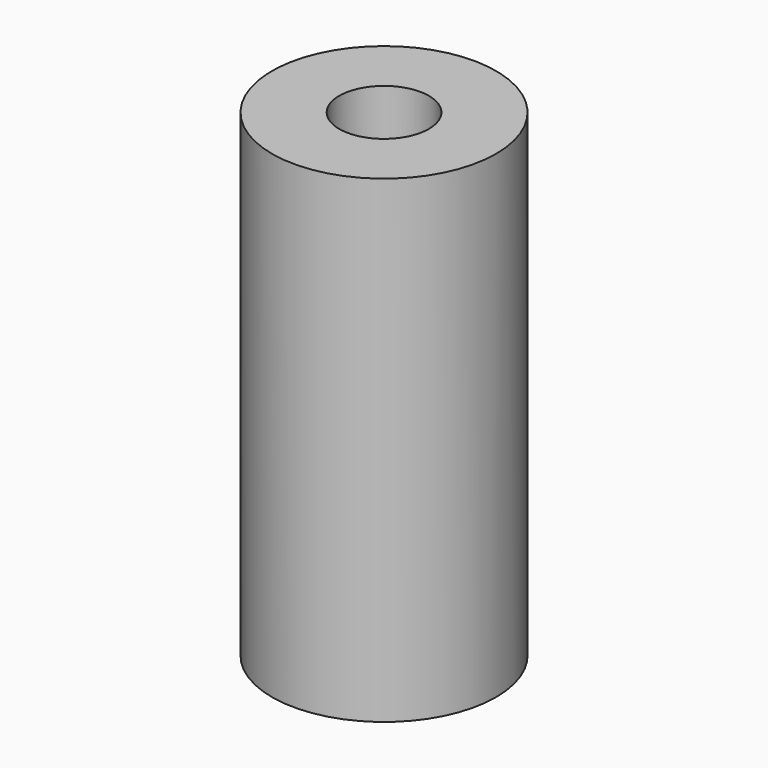
from build123d import *

# Parameters (mm, degrees)
CYLINDER1798_R     = 3
CYLINDER1798_DEPTH = 20
CYLINDER1796_R     = 2.6
CYLINDER1796_DEPTH = 19
CYLINDER1797_R     = 7.5
CYLINDER1797_DEPTH = 32


with BuildPart() as obj1:
    # Cylinder1798 → Cylinder1798 (new body)
    with BuildSketch(Plane.XY.offset(69)):
        Circle(CYLINDER1798_R)
    extrude(amount=CYLINDER1798_DEPTH)


with BuildPart() as obj2:
    # Cylinder1796 → Cylinder1796 (new body)
    with BuildSketch(Plane.XY.offset(47)):
        Circle(CYLINDER1796_R)
    extrude(amount=CYLINDER1796_DEPTH)


with BuildPart() as cut668:
    # Cylinder1797 → Cylinder1797 (new body)
    with BuildSketch(Plane.XY.offset(50.65)):
        Circle(CYLINDER1797_R)
    extrude(amount=CYLINDER1797_DEPTH)

    # Cut666: cut obj2
    add(obj2.part, mode=Mode.SUBTRACT)

    # Cut668: cut obj1
    add(obj1.part, mode=Mode.SUBTRACT)


solid = cut668.part
